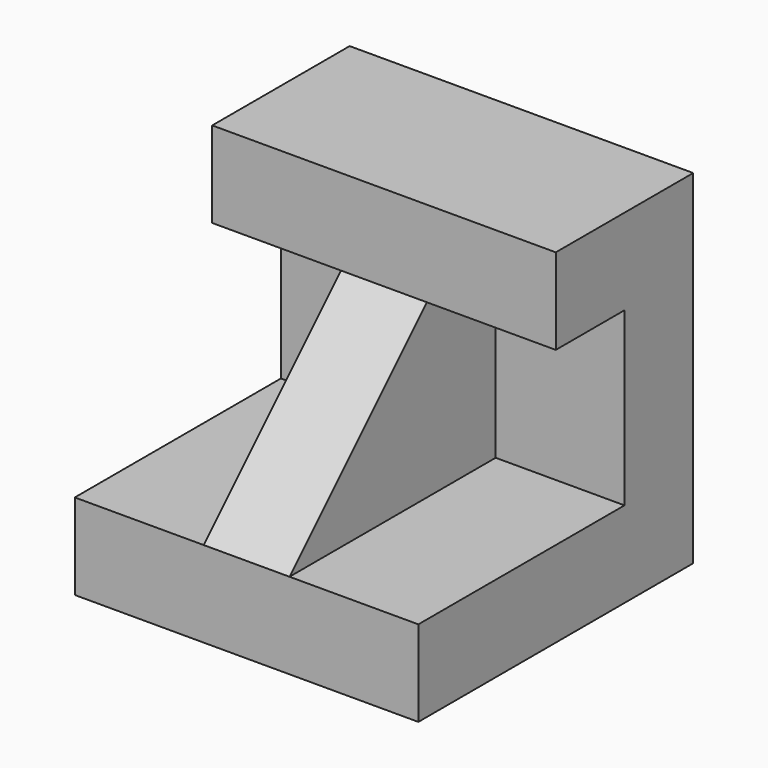
from build123d import *

# Parameters (mm, degrees)
F0_W      = 101.6
F0_H      = 101.6
F1_DEPTH  = 101.6
F2_W      = 101.6
F2_H      = 76.2
F3_DEPTH  = 76.2
F4_W      = 101.6
F4_H      = 25.4
F5_DEPTH  = 76.2
F6_DEPTH  = 50.8
F7_W      = 25.4
F7_H      = 50.8
F8_DEPTH  = 76.2
F10_DEPTH = 25.4


with BuildPart() as f1:
    # F0 (on Front) → F1 (new body)
    with BuildSketch(Plane.XZ):
        with Locations((-133.1260756969, -52.0620004654)):
            Rectangle(F0_W, F0_H)
    extrude(amount=F1_DEPTH)

    # F2 (on face) → F3 (cut)
    with BuildSketch(Plane.XZ.offset(101.6)):
        with Locations((-133.1260756969, -64.7620004654)):
            Rectangle(F2_W, F2_H)
    extrude(amount=-F3_DEPTH, mode=Mode.SUBTRACT)

    # F4 (on face) → F5 (join)
    with BuildSketch(Plane.XZ.offset(25.4)):
        with Locations((-133.1260756969, -90.1620004654)):
            Rectangle(F4_W, F4_H)
    extrude(amount=F5_DEPTH)

    # F6 (cut): a face of the model
    f6_faces = [f1.faces().sort_by_distance(p)[0] for p in [
        (-133.1260756969, -101.6, -13.9620004654),
    ]]
    extrude(f6_faces, amount=-F6_DEPTH, mode=Mode.SUBTRACT)

    # F7 (on face) → F8 (join)
    with BuildSketch(Plane.XZ.offset(25.4)):
        with Locations((-133.1260756969, -52.0620004654)):
            Rectangle(F7_W, F7_H)
    extrude(amount=F8_DEPTH)

    # F9 (on face) → F10 (cut)
    with BuildSketch(Plane.YZ.offset(-120.4260756969)):
        Polygon((-101.6, -26.6620004654), (-101.6, -77.4620004654), (-50.8, -26.6620004654), align=None)
    extrude(amount=-F10_DEPTH, mode=Mode.SUBTRACT)


solid = f1.part
